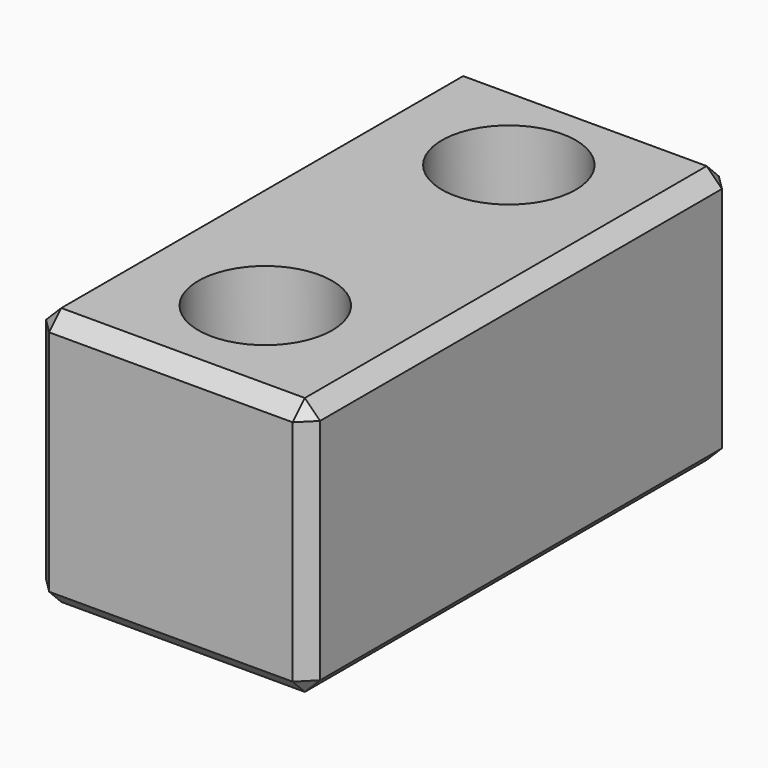
from build123d import *

# Parameters (mm, degrees)
SKETCH076_W         = 18
SKETCH076_H         = 35
PAD038_DEPTH        = 17
HOLE008_D           = 5.3
HOLE008_DEPTH       = 25
HOLE008_CBORE_D     = 8.8
HOLE008_CBORE_DEPTH = 5.4
CHAMFER021_SIZE     = 1


with BuildPart() as part:
    # Sketch076 → Pad038 (new body)
    with BuildSketch(Plane.XY.offset(-51)):
        with Locations((101, 222.5)):
            Rectangle(SKETCH076_W, SKETCH076_H)
    extrude(amount=PAD038_DEPTH)

    # Hole008
    with Locations(Plane.XY.offset(-34)):
        with Locations((101, 232.75), (101, 212.75)):
            CounterBoreHole(HOLE008_D / 2, HOLE008_CBORE_D / 2, HOLE008_CBORE_DEPTH, depth=HOLE008_DEPTH)

    # Chamfer021
    chamfer021_edges = [part.edges().sort_by_distance(p)[0] for p in [
        (92, 240, -42.5),
        (110, 240, -42.5),
        (101, 240, -51),
        (101, 240, -34),
        (110, 205, -42.5),
        (110, 222.5, -51),
        (110, 222.5, -34),
        (92, 205, -42.5),
        (92, 222.5, -51),
        (92, 222.5, -34),
        (101, 205, -51),
        (101, 205, -34),
    ]]
    chamfer(chamfer021_edges, length=CHAMFER021_SIZE)


with BuildPart() as part_1:
    # Body001010 placement: moved
    add(part.part.moved(Location((0, 3.75, 0))))


solid = part_1.part
